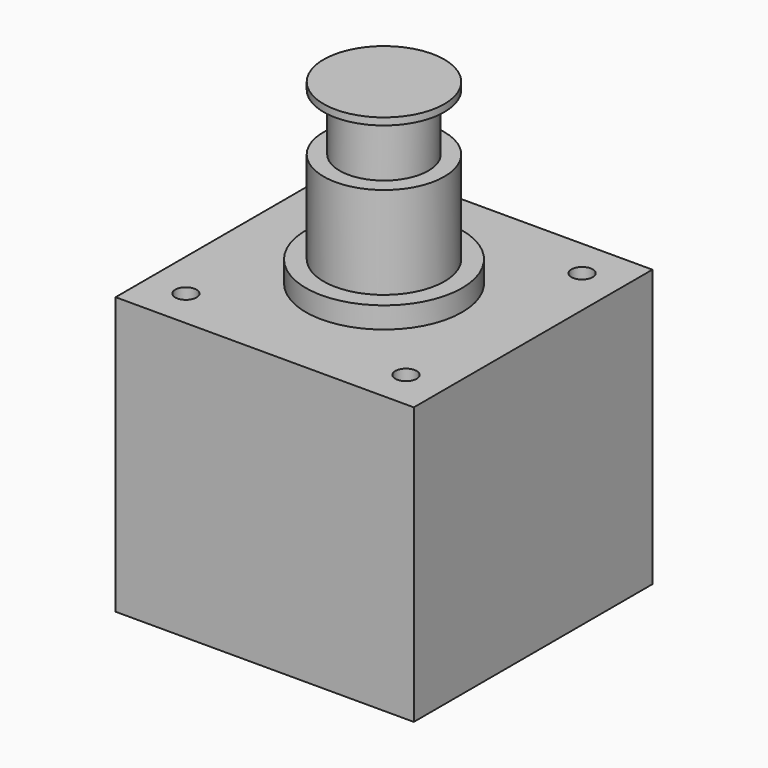
from build123d import *

# Parameters (mm, degrees)
F0_W      = 42
F0_H      = 42
F1_DEPTH  = 39
F2_R      = 11
F3_DEPTH  = 3
F4_R      = 1.5
F5_DEPTH  = 5
F6_R      = 8.5
F7_DEPTH  = 22
F8_R      = 31.175954
F8_R_2    = 6.25
F9_DEPTH  = 9
F10_R     = 8.5
F11_DEPTH = 1


with BuildPart() as f1:
    # F0 (on Top) → F1 (new body)
    with BuildSketch(Plane.XY):
        Rectangle(F0_W, F0_H)
    extrude(amount=F1_DEPTH)

    # F2 (on face) → F3 (join)
    with BuildSketch(Plane.XY.offset(39)):
        Circle(F2_R)
    extrude(amount=F3_DEPTH)

    # F4 (on face) → F5 (cut)
    with BuildSketch(Plane.XY.offset(39)):
        with Locations((-15.5, 15.5)):
            Circle(F4_R)
        with Locations((15.5, 15.5)):
            Circle(F4_R)
        with Locations((15.5, -15.5)):
            Circle(F4_R)
        with Locations((-15.5, -15.5)):
            Circle(F4_R)
    extrude(amount=-F5_DEPTH, mode=Mode.SUBTRACT)


with BuildPart() as f7:
    # F6 (on face) → F7 (new body)
    with BuildSketch(Plane.XY.offset(42)):
        Circle(F6_R)
    extrude(amount=F7_DEPTH)

    # F8 (on face) → F9 (cut)
    with BuildSketch(Plane.XY.offset(64)):
        Circle(F8_R)
        Circle(F8_R_2, mode=Mode.SUBTRACT)
    extrude(amount=-F9_DEPTH, mode=Mode.SUBTRACT)

    # F10 (on face) → F11 (join)
    with BuildSketch(Plane.XY.offset(64)):
        Circle(F10_R)
    extrude(amount=-F11_DEPTH)


solid = Compound([f1.part, f7.part])
